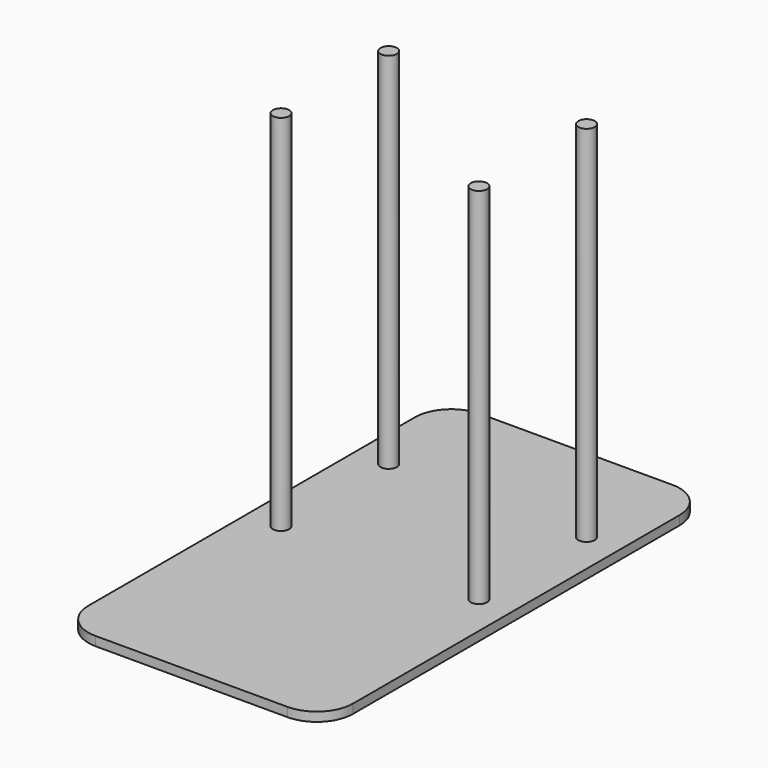
from build123d import *

# Parameters (mm, degrees)
F0_R     = 1.143
F1_DEPTH = 50.8
F2_DEPTH = 1.27


with BuildPart() as f1:
    # F0 (on Top) → F1 (new body)
    with BuildSketch(Plane.XY):
        with Locations((-13.479616519, -10.2275963136)):
            Circle(F0_R)
    extrude(amount=F1_DEPTH)



with BuildPart() as f1b:
    # F0 (on Top) → F1, piece 2 (new body)
    with BuildSketch(Plane.XY):
        with Locations((-13.479616519, 8.5684026553)):
            Circle(F0_R)
    extrude(amount=F1_DEPTH)


with BuildPart() as f1c:
    # F0 (on Top) → F1, piece 3 (new body)
    with BuildSketch(Plane.XY):
        with Locations((14.1555836841, 8.5684026553)):
            Circle(F0_R)
    extrude(amount=F1_DEPTH)


with BuildPart() as f1d:
    # F0 (on Top) → F1, piece 4 (new body)
    with BuildSketch(Plane.XY):
        with Locations((14.1555836841, -10.2275963136)):
            Circle(F0_R)
    extrude(amount=F1_DEPTH)


with BuildPart() as f1_1:
    add(f1.part)

    add(f1b.part)  # F2 merges F1b

    add(f1c.part)  # F2 merges F1c

    add(f1d.part)  # F2 merges F1d
    # F0 (on Top) → F2 (join)
    with BuildSketch(Plane.XY):
        with BuildLine():
            ThreePointArc((18.8266877085, 18.9855317903), (17.3387901569, 22.5776342387), (13.7466877085, 24.0655317903))
            Line((13.7466877085, 24.0655317903), (-13.0707205434, 24.0655317903))
            ThreePointArc((-13.0707205434, 24.0655317903), (-16.6628229918, 22.5776342387), (-18.1507205434, 18.9855317903))
            Line((-18.1507205434, 18.9855317903), (-18.1507205434, -20.6447254485))
            Line((-18.1507205434, -20.6447254485), (-18.1507205434, -38.0270736456))
            ThreePointArc((-18.1507205434, -38.0270736456), (-16.6628229918, -41.619176094), (-13.0707205434, -43.1070736456))
            Line((-13.0707205434, -43.1070736456), (13.7466877085, -43.1070736456))
            ThreePointArc((13.7466877085, -43.1070736456), (17.3387901569, -41.619176094), (18.8266877085, -38.0270736456))
            Line((18.8266877085, -38.0270736456), (18.8266877085, -20.6447254485))
            Line((18.8266877085, -20.6447254485), (18.8266877085, 18.9855317903))
        make_face()
        with Locations((-13.479616519, -10.2275963136)):
            Circle(F0_R, mode=Mode.SUBTRACT)
        with Locations((14.1555836841, -10.2275963136)):
            Circle(F0_R, mode=Mode.SUBTRACT)
        with Locations((-13.479616519, 8.5684026553)):
            Circle(F0_R, mode=Mode.SUBTRACT)
        with Locations((14.1555836841, 8.5684026553)):
            Circle(F0_R, mode=Mode.SUBTRACT)
        with Locations((14.1555836841, -10.2275963136)):
            Circle(F0_R)
        with Locations((-13.479616519, -10.2275963136)):
            Circle(F0_R)
        with Locations((-13.479616519, 8.5684026553)):
            Circle(F0_R)
        with Locations((14.1555836841, 8.5684026553)):
            Circle(F0_R)
    extrude(amount=-F2_DEPTH)


solid = f1_1.part
